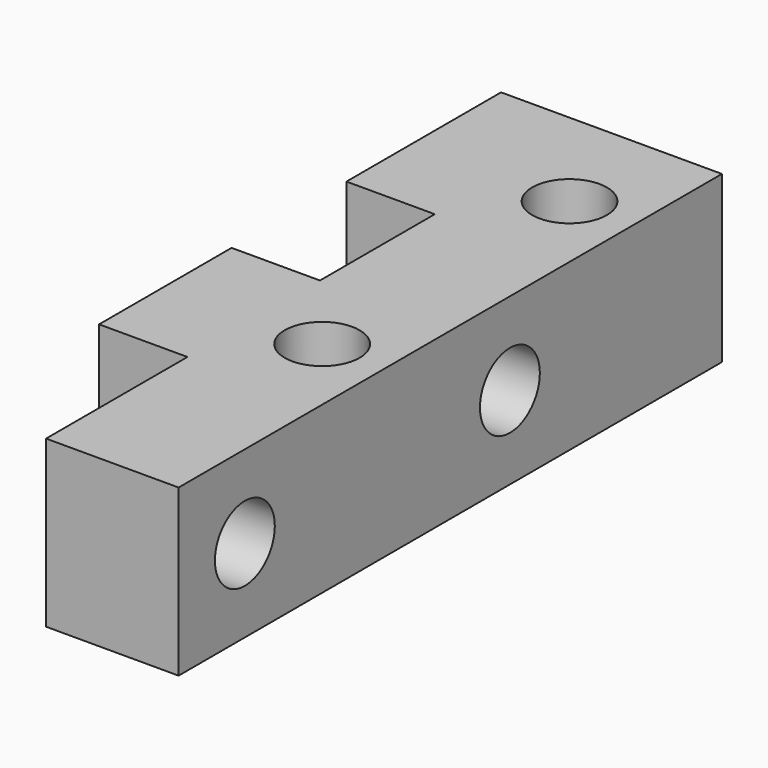
from build123d import *

# Parameters (mm, degrees)
F0_R     = 2.15265
F1_DEPTH = 9.525
F2_R     = 2.15265
F3_DEPTH = 12.7


with BuildPart() as f1:
    # F0 (on Top) → F1 (new body)
    with BuildSketch(Plane.XY):
        Polygon((12.7, 0), (0, 0), (0, -11.1125), (5.08, -11.1125), (5.08, -19.3675), (0, -19.3675), (0, -28.8925), (5.08, -28.8925), (5.08, -39.0525), (12.7, -39.0525), align=None)
        with Locations((9.017, -24.13)):
            Circle(F0_R, mode=Mode.SUBTRACT)
        with Locations((9.017, -6.35)):
            Circle(F0_R, mode=Mode.SUBTRACT)
    extrude(amount=F1_DEPTH)

    # F2 (on face) → F3 (cut, through all)
    with BuildSketch(Plane.YZ.offset(12.7)):
        with Locations((-34.29, 4.7625)):
            Circle(F2_R)
        with Locations((-15.24, 4.7625)):
            Circle(F2_R)
    extrude(amount=-F3_DEPTH, mode=Mode.SUBTRACT)


solid = f1.part
